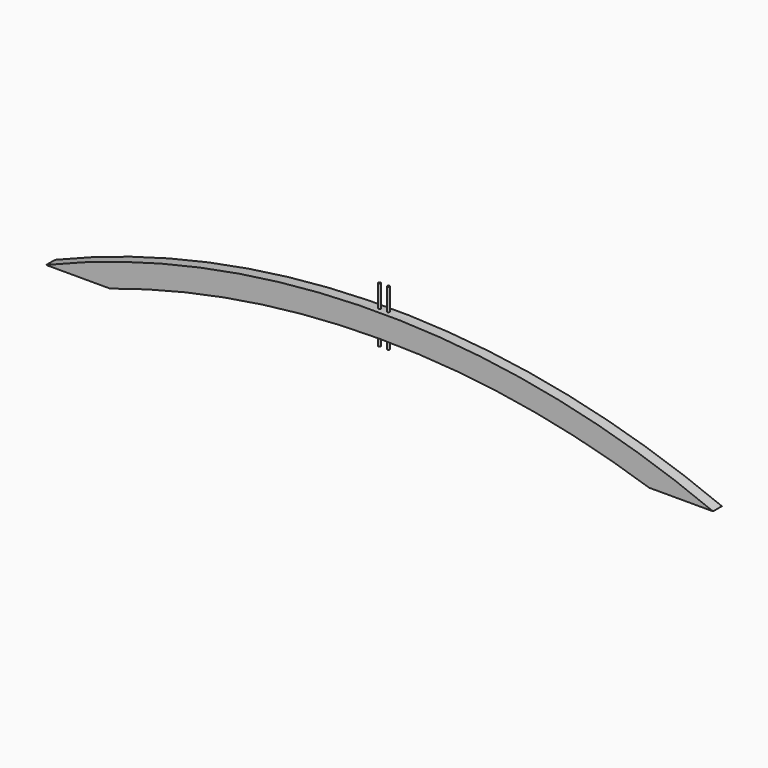
from build123d import *

# Parameters (mm, degrees)
F1_DEPTH = 2.5
F2_R     = 0.5
F3_DEPTH = 25


with BuildPart() as f1:
    # F0 (on Front) → F1 (new body, symmetric)
    with BuildSketch(Plane.XZ):
        with BuildLine():
            Line((121.261015, -15), (150, -15))
            ThreePointArc((150, -15), (0, 14.918645), (-150, -15))
            Line((-150, -15), (-121.261015, -15))
            ThreePointArc((-121.261015, -15), (0, 4.565027), (121.261015, -15))
        make_face()
    extrude(amount=F1_DEPTH, both=True)

    # F2 (on Top) → F3 (join)
    with BuildSketch(Plane.XY):
        with Locations((-2, 0)):
            Circle(F2_R)
        with BuildLine():
            ThreePointArc((2.5, 0), (2, 0.5), (1.5, 0))
            ThreePointArc((1.5, 0), (2, -0.5), (2.5, 0))
        make_face()
    extrude(amount=F3_DEPTH)


solid = f1.part
